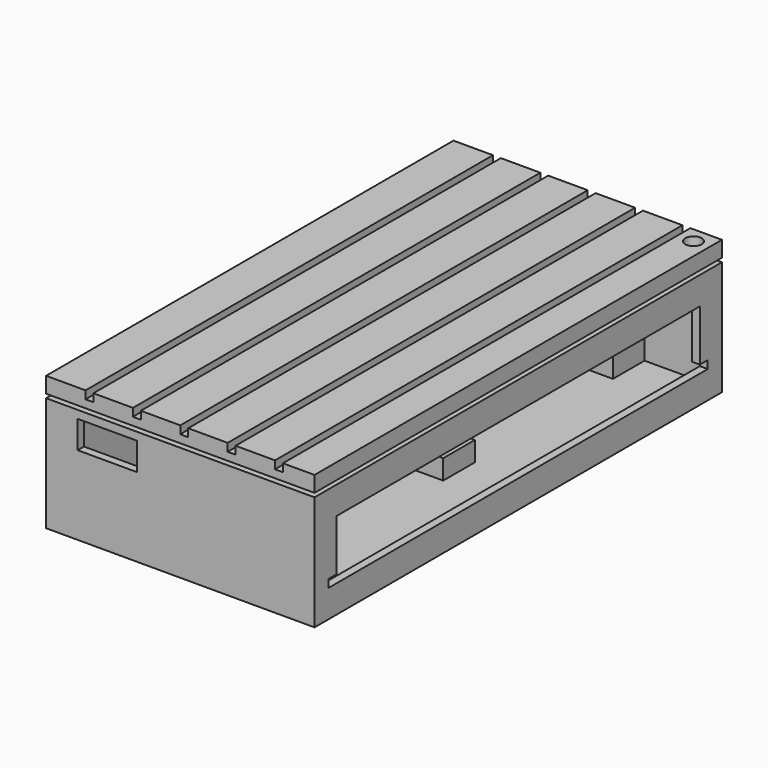
from build123d import *

# Parameters (mm, degrees)
BOX005_W          = 10
BOX005_H          = 10
BOX005_DEPTH      = 5
BOX006_W          = 10
BOX006_H          = 10
BOX006_DEPTH      = 5
BOX007_W          = 10
BOX007_H          = 10
BOX007_DEPTH      = 5
BOX009_W          = 14
BOX009_H          = 10
BOX009_DEPTH      = 5
BOX010_W          = 10
BOX010_H          = 10
BOX010_DEPTH      = 5
CYLINDER002_R     = 2.1
CYLINDER002_DEPTH = 10
CYLINDER001_R     = 2.1
CYLINDER001_DEPTH = 10
BOX014_W          = 10
BOX014_H          = 129
BOX014_DEPTH      = 2
BOX015_W          = 10
BOX015_H          = 129
BOX015_DEPTH      = 2
BOX016_W          = 10
BOX016_H          = 129
BOX016_DEPTH      = 2
BOX017_W          = 10
BOX017_H          = 129
BOX017_DEPTH      = 2
BOX018_W          = 10
BOX018_H          = 129
BOX018_DEPTH      = 2
BOX019_W          = 8
BOX019_H          = 129
BOX019_DEPTH      = 2
BOX012_W          = 68
BOX012_H          = 129
BOX012_DEPTH      = 2
BOX020_W          = 3
BOX020_H          = 3
BOX020_DEPTH      = 5
BOX021_W          = 3
BOX021_H          = 3
BOX021_DEPTH      = 5
CYLINDER_R        = 1
CYLINDER_DEPTH    = 10
BOX011_W          = 6
BOX011_H          = 6
BOX011_DEPTH      = 5
CYLINDER003_R     = 1
CYLINDER003_DEPTH = 10
BOX008_W          = 6
BOX008_H          = 6
BOX008_DEPTH      = 5
BOX022_W          = 10
BOX022_H          = 120
BOX022_DEPTH      = 2
BOX004_W          = 15
BOX004_H          = 10
BOX004_DEPTH      = 7
BOX003_W          = 10
BOX003_H          = 20
BOX003_DEPTH      = 15
BOX002_W          = 78
BOX002_H          = 115
BOX002_DEPTH      = 15
BOX_W             = 64
BOX_H             = 125
BOX_DEPTH         = 31
BOX001_W          = 68
BOX001_H          = 129
BOX001_DEPTH      = 29


with BuildPart() as cube002:
    # Box005 → Box005 (new body)
    with BuildSketch(Plane(origin=(52, 0, 0), x_dir=(1, 0, 0), z_dir=(0, 0, 1))):
        with Locations((5, 5)):
            Rectangle(BOX005_W, BOX005_H)
    extrude(amount=BOX005_DEPTH)


with BuildPart() as cube003:
    # Box006 → Box006 (new body)
    with BuildSketch(Plane(origin=(15, 115, 0), x_dir=(1, 0, 0), z_dir=(0, 0, 1))):
        with Locations((5, 5)):
            Rectangle(BOX006_W, BOX006_H)
    extrude(amount=BOX006_DEPTH)


with BuildPart() as cube004:
    # Box007 → Box007 (new body)
    with BuildSketch(Plane(origin=(52, 115, 0), x_dir=(1, 0, 0), z_dir=(0, 0, 1))):
        with Locations((5, 5)):
            Rectangle(BOX007_W, BOX007_H)
    extrude(amount=BOX007_DEPTH)


with BuildPart() as cube006:
    # Box009 → Box009 (new body)
    with BuildSketch(Plane(origin=(49, 60, 0), x_dir=(1, 0, 0), z_dir=(0, 0, 1))):
        with Locations((7, 5)):
            Rectangle(BOX009_W, BOX009_H)
    extrude(amount=BOX009_DEPTH)


with BuildPart() as cube007:
    # Box010 → Box010 (new body)
    with BuildSketch(Plane(origin=(15, 60, 0), x_dir=(1, 0, 0), z_dir=(0, 0, 1))):
        with Locations((5, 5)):
            Rectangle(BOX010_W, BOX010_H)
    extrude(amount=BOX010_DEPTH)


with BuildPart() as cylinder002:
    # Cylinder002 → Cylinder002 (new body)
    with BuildSketch(Plane(origin=(76, 123, 26), x_dir=(1, 0, 0), z_dir=(0, 0, 1))):
        Circle(CYLINDER002_R)
    extrude(amount=CYLINDER002_DEPTH)


with BuildPart() as cylinder001:
    # Cylinder001 → Cylinder001 (new body)
    with BuildSketch(Plane(origin=(2, 123, 28), x_dir=(1, 0, 0), z_dir=(0, 0, 1))):
        Circle(CYLINDER001_R)
    extrude(amount=CYLINDER001_DEPTH)


with BuildPart() as cube011:
    # Box014 → Box014 (new body)
    with BuildSketch(Plane(origin=(-2, -2, 30), x_dir=(1, 0, 0), z_dir=(0, 0, 1))):
        with Locations((5, 64.5)):
            Rectangle(BOX014_W, BOX014_H)
    extrude(amount=BOX014_DEPTH)


with BuildPart() as cube012:
    # Box015 → Box015 (new body)
    with BuildSketch(Plane(origin=(10, -2, 30), x_dir=(1, 0, 0), z_dir=(0, 0, 1))):
        with Locations((5, 64.5)):
            Rectangle(BOX015_W, BOX015_H)
    extrude(amount=BOX015_DEPTH)


with BuildPart() as cube013:
    # Box016 → Box016 (new body)
    with BuildSketch(Plane(origin=(22, -2, 30), x_dir=(1, 0, 0), z_dir=(0, 0, 1))):
        with Locations((5, 64.5)):
            Rectangle(BOX016_W, BOX016_H)
    extrude(amount=BOX016_DEPTH)


with BuildPart() as cube014:
    # Box017 → Box017 (new body)
    with BuildSketch(Plane(origin=(34, -2, 30), x_dir=(1, 0, 0), z_dir=(0, 0, 1))):
        with Locations((5, 64.5)):
            Rectangle(BOX017_W, BOX017_H)
    extrude(amount=BOX017_DEPTH)


with BuildPart() as cube015:
    # Box018 → Box018 (new body)
    with BuildSketch(Plane(origin=(46, -2, 30), x_dir=(1, 0, 0), z_dir=(0, 0, 1))):
        with Locations((5, 64.5)):
            Rectangle(BOX018_W, BOX018_H)
    extrude(amount=BOX018_DEPTH)


with BuildPart() as cube016:
    # Box019 → Box019 (new body)
    with BuildSketch(Plane(origin=(58, -2, 30), x_dir=(1, 0, 0), z_dir=(0, 0, 1))):
        with Locations((4, 64.5)):
            Rectangle(BOX019_W, BOX019_H)
    extrude(amount=BOX019_DEPTH)


with BuildPart() as cut005:
    # Box012 → Box012 (new body)
    with BuildSketch(Plane(origin=(-2, -2, 28), x_dir=(1, 0, 0), z_dir=(0, 0, 1))):
        with Locations((34, 64.5)):
            Rectangle(BOX012_W, BOX012_H)
    extrude(amount=BOX012_DEPTH)

    # Fusion: union Cube011, Cube012, Cube013, Cube014, Cube015, Cube016
    add(cube011.part)
    add(cube012.part)
    add(cube013.part)
    add(cube014.part)
    add(cube015.part)
    add(cube016.part)


with BuildPart() as cut005_1:
    # Fusion placement: moved
    add(cut005.part.moved(Location((14, 0, 0))))

    # Cut004: cut Cylinder001
    add(cylinder001.part, mode=Mode.SUBTRACT)

    # Cut005: cut Cylinder002
    add(cylinder002.part, mode=Mode.SUBTRACT)


with BuildPart() as cube017:
    # Box020 → Box020 (new body)
    with BuildSketch(Plane(origin=(74.8, 0.2, 25), x_dir=(1, 0, 0), z_dir=(0, 0, 1))):
        with Locations((1.5, 1.5)):
            Rectangle(BOX020_W, BOX020_H)
    extrude(amount=BOX020_DEPTH)


with BuildPart() as cube018:
    # Box021 → Box021 (new body)
    with BuildSketch(Plane(origin=(14, 0, 25), x_dir=(1, 0, 0), z_dir=(0, 0, 1))):
        with Locations((1.5, 1.5)):
            Rectangle(BOX021_W, BOX021_H)
    extrude(amount=BOX021_DEPTH)


with BuildPart() as cylinder:
    # Cylinder → Cylinder (new body)
    with BuildSketch(Plane(origin=(2, 123, 21), x_dir=(1, 0, 0), z_dir=(0, 0, 1))):
        Circle(CYLINDER_R)
    extrude(amount=CYLINDER_DEPTH)


with BuildPart() as cut006:
    # Box011 → Box011 (new body)
    with BuildSketch(Plane(origin=(0, 119, 22), x_dir=(1, 0, 0), z_dir=(0, 0, 1))):
        with Locations((3, 3)):
            Rectangle(BOX011_W, BOX011_H)
    extrude(amount=BOX011_DEPTH)

    # Cut006: cut Cylinder
    add(cylinder.part, mode=Mode.SUBTRACT)


with BuildPart() as cut006_1:
    # Cut006 placement: moved
    add(cut006.part.moved(Location((14, 0, 0))))


with BuildPart() as cylinder003:
    # Cylinder003 → Cylinder003 (new body)
    with BuildSketch(Plane(origin=(76, 123, 24), x_dir=(1, 0, 0), z_dir=(0, 0, 1))):
        Circle(CYLINDER003_R)
    extrude(amount=CYLINDER003_DEPTH)


with BuildPart() as cut007:
    # Box008 → Box008 (new body)
    with BuildSketch(Plane(origin=(72, 119, 22), x_dir=(1, 0, 0), z_dir=(0, 0, 1))):
        with Locations((3, 3)):
            Rectangle(BOX008_W, BOX008_H)
    extrude(amount=BOX008_DEPTH)

    # Cut007: cut Cylinder003
    add(cylinder003.part, mode=Mode.SUBTRACT)


with BuildPart() as cube019:
    # Box022 → Box022 (new body)
    with BuildSketch(Plane(origin=(72, 2.5, 5), x_dir=(1, 0, 0), z_dir=(0, 0, 1))):
        with Locations((5, 60)):
            Rectangle(BOX022_W, BOX022_H)
    extrude(amount=BOX022_DEPTH)


with BuildPart() as usb:
    # Box004 → Box004 (new body)
    with BuildSketch(Plane(origin=(6, -3, 18), x_dir=(1, 0, 0), z_dir=(0, 0, 1))):
        with Locations((7.5, 5)):
            Rectangle(BOX004_W, BOX004_H)
    extrude(amount=BOX004_DEPTH)


with BuildPart() as switch:
    # Box003 → Box003 (new body)
    with BuildSketch(Plane(origin=(-5, 88, 5), x_dir=(1, 0, 0), z_dir=(0, 0, 1))):
        with Locations((5, 10)):
            Rectangle(BOX003_W, BOX003_H)
    extrude(amount=BOX003_DEPTH)


with BuildPart() as obj1:
    # Box002 → Box002 (new body)
    with BuildSketch(Plane(origin=(31, 5, 5), x_dir=(1, 0, 0), z_dir=(0, 0, 1))):
        with Locations((39, 57.5)):
            Rectangle(BOX002_W, BOX002_H)
    extrude(amount=BOX002_DEPTH)


with BuildPart() as cube:
    # Box → Box (new body)
    with BuildSketch(Plane.XY):
        with Locations((32, 62.5)):
            Rectangle(BOX_W, BOX_H)
    extrude(amount=BOX_DEPTH)


with BuildPart() as cut008:
    # Box001 → Box001 (new body)
    with BuildSketch(Plane(origin=(-2, -2, -2), x_dir=(1, 0, 0), z_dir=(0, 0, 1))):
        with Locations((34, 64.5)):
            Rectangle(BOX001_W, BOX001_H)
    extrude(amount=BOX001_DEPTH)

    # Cut: cut Cube
    add(cube.part, mode=Mode.SUBTRACT)

    # Cut001: cut obj1
    add(obj1.part, mode=Mode.SUBTRACT)

    # Cut002: cut switch
    add(switch.part, mode=Mode.SUBTRACT)

    # Cut003: cut usb
    add(usb.part, mode=Mode.SUBTRACT)


with BuildPart() as cut008_1:
    # Cut003 placement: moved
    add(cut008.part.moved(Location((14, 0, 0))))

    # Cut008: cut Cube019
    add(cube019.part, mode=Mode.SUBTRACT)


solid = Compound([cube002.part, cube003.part, cube004.part, cube006.part, cube007.part, cut005_1.part, cube017.part, cube018.part, cut006_1.part, cut007.part, cut008_1.part])
